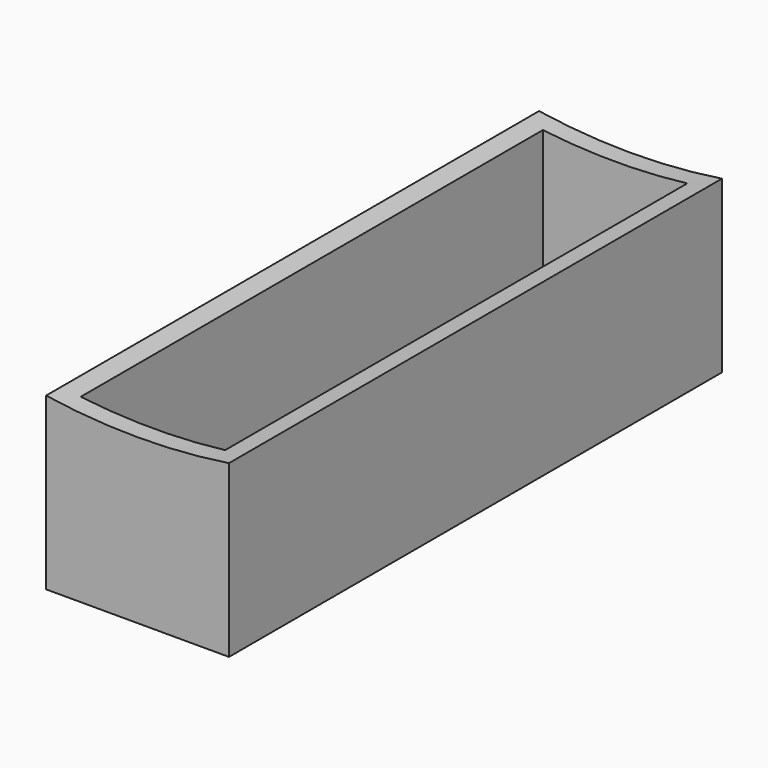
from build123d import *

# Parameters (mm, degrees)
F1_DEPTH = 64
F3_W     = 15
F3_H     = 60
F4_DEPTH = 25
F5_R     = 3
F5_R_2   = 4
F6_DEPTH = 25


with BuildPart() as f1:
    # F0 (on Front) → F1 (new body)
    with BuildSketch(Plane.XZ):
        with BuildLine():
            Line((-9.5, 17.720389), (-9.5, 0))
            Line((-9.5, 0), (9.5, 0))
            Line((9.5, 0), (9.5, 17.720389))
            ThreePointArc((9.5, 17.720389), (0, 17), (-9.5, 17.720389))
        make_face()
    extrude(amount=-F1_DEPTH)

    # F3 (on offset) → F4 (cut)
    with BuildSketch(Plane.XY.offset(2)):
        with Locations((0, 32)):
            Rectangle(F3_W, F3_H)
    extrude(amount=F4_DEPTH, mode=Mode.SUBTRACT)

    # F5 (on face) → F6 (cut)
    with BuildSketch(Plane.XY.offset(2)):
        with Locations((0, 12)):
            Circle(F5_R)
        with Locations((0, 32)):
            Circle(F5_R)
        with Locations((0, 52)):
            Circle(F5_R_2)
    extrude(amount=-F6_DEPTH, mode=Mode.SUBTRACT)


solid = f1.part
